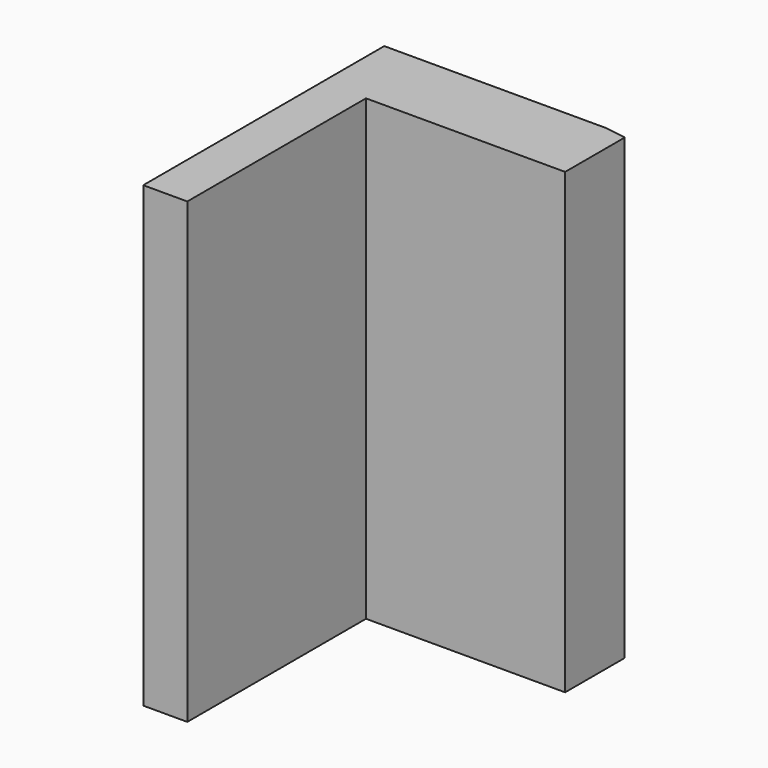
from build123d import *

# Parameters (mm, degrees)
F2_DEPTH = 179.902062


with BuildPart() as f2:
    # F1 (on face) → F2 (new body)
    with BuildSketch(Plane.XY):
        Polygon((-37.18327, -70.442282), (-37.18327, 17.256182), (41.012213, 17.256182), (41.012213, 46.511157), (32.272487, 47.838785), (-54.480016, 47.838785), (-54.480016, -70.442282), align=None)
    extrude(amount=F2_DEPTH)


solid = f2.part
